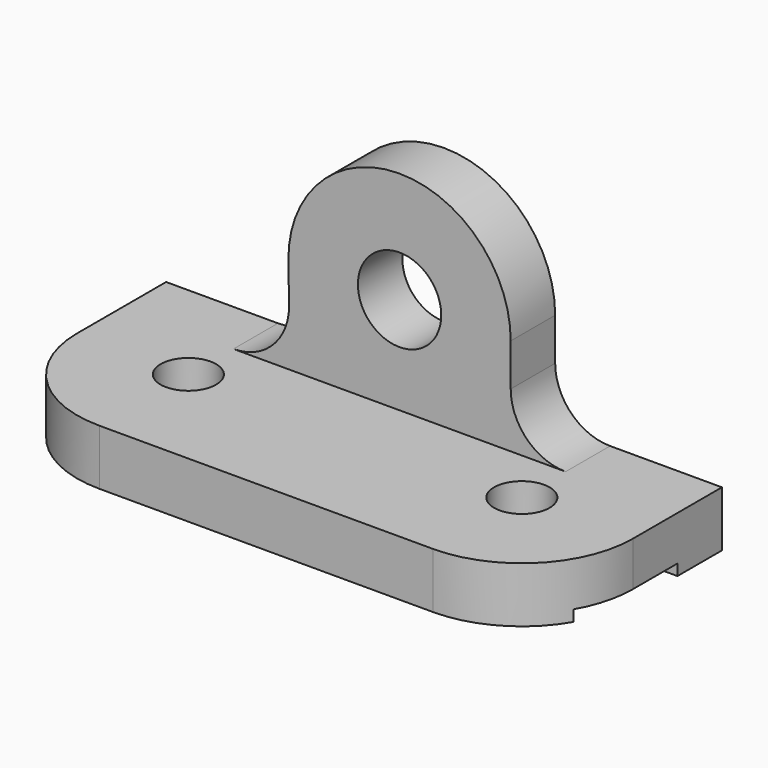
from build123d import *

# Parameters (mm, degrees)
SKETCH002_W  = 20
SKETCH002_H  = 10
PAD002_DEPTH = 60
SKETCH_R     = 5
PAD_DEPTH    = 10
SKETCH001_R  = 7.5
PAD001_DEPTH = 10
BOX_W        = 10
BOX_H        = 10
BOX_DEPTH    = 10


with BuildPart() as pad002:
    # Sketch002 → Pad002 (new body, symmetric)
    with BuildSketch(Plane.YZ):
        with Locations((-20, -3)):
            Rectangle(SKETCH002_W, SKETCH002_H)
    extrude(amount=PAD002_DEPTH, both=True)


with BuildPart() as pad:
    # Sketch → Pad (new body)
    with BuildSketch(Plane.XY):
        with BuildLine():
            Line((-50, 0), (50, 0))
            Line((50, 0), (50, -20))
            ThreePointArc((30, -40), (44.142136, -34.142136), (50, -20))
            Line((30, -40), (-30, -40))
            ThreePointArc((-50, -20), (-44.142136, -34.142136), (-30, -40))
            Line((-50, -20), (-50, 0))
        make_face()
        with Locations((-30, -20)):
            Circle(SKETCH_R, mode=Mode.SUBTRACT)
        with Locations((30, -20)):
            Circle(SKETCH_R, mode=Mode.SUBTRACT)
    extrude(amount=PAD_DEPTH)


with BuildPart() as cut:
    # Sketch001 → Pad001 (new body)
    with BuildSketch(Plane.XZ):
        with BuildLine():
            ThreePointArc((20, 27.5), (-0.160385, 47.499357), (-19.997428, 27.179241))
            Line((-19.997428, 27.179241), (-19.884845, 20.160379))
            ThreePointArc((-29.883559, 10), (-22.756014, 12.985864), (-19.884845, 20.160379))
            Line((-29.883559, 10), (29.883559, 10))
            ThreePointArc((20, 19.883559), (22.894827, 12.894828), (29.883559, 10))
            Line((20, 27.5), (20, 19.883559))
        make_face()
        with Locations((0, 27.5)):
            Circle(SKETCH001_R, mode=Mode.SUBTRACT)
    extrude(amount=PAD001_DEPTH)

    # Fusion: union Pad
    add(pad.part)

    # Cut: cut Pad002
    add(pad002.part, mode=Mode.SUBTRACT)


with BuildPart() as cubo:
    # Box → Box (new body)
    with BuildSketch(Plane.XY):
        with Locations((5, 5)):
            Rectangle(BOX_W, BOX_H)
    extrude(amount=BOX_DEPTH)


solid = Compound([cut.part, cubo.part])
